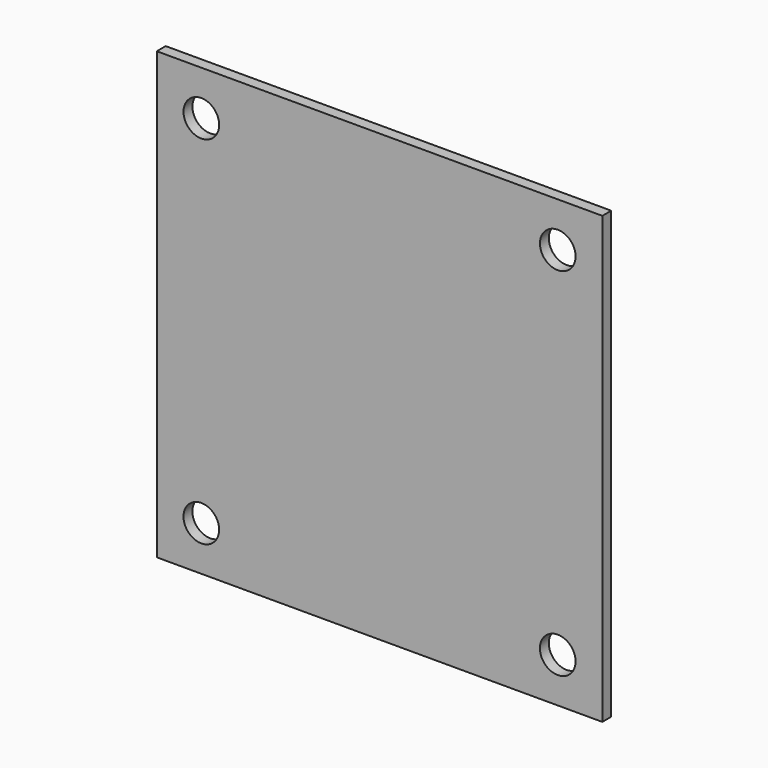
from build123d import *

# Parameters (mm, degrees)
F0_W     = 200
F0_H     = 200
F1_DEPTH = 2.5
F2_R     = 8
F3_DEPTH = 5.001


with BuildPart() as f1:
    # F0 (on Front) → F1 (new body, symmetric)
    with BuildSketch(Plane.XZ):
        Rectangle(F0_W, F0_H)
    extrude(amount=F1_DEPTH, both=True)

    # F2 (on face) → F3 (cut, through all)
    with BuildSketch(Plane.XZ.offset(2.5)):
        with Locations((-80, 80)):
            Circle(F2_R)
        with Locations((80, 80)):
            Circle(F2_R)
        with Locations((80, -80)):
            Circle(F2_R)
        with Locations((-80, -80)):
            Circle(F2_R)
    extrude(amount=-F3_DEPTH, mode=Mode.SUBTRACT)


solid = f1.part
